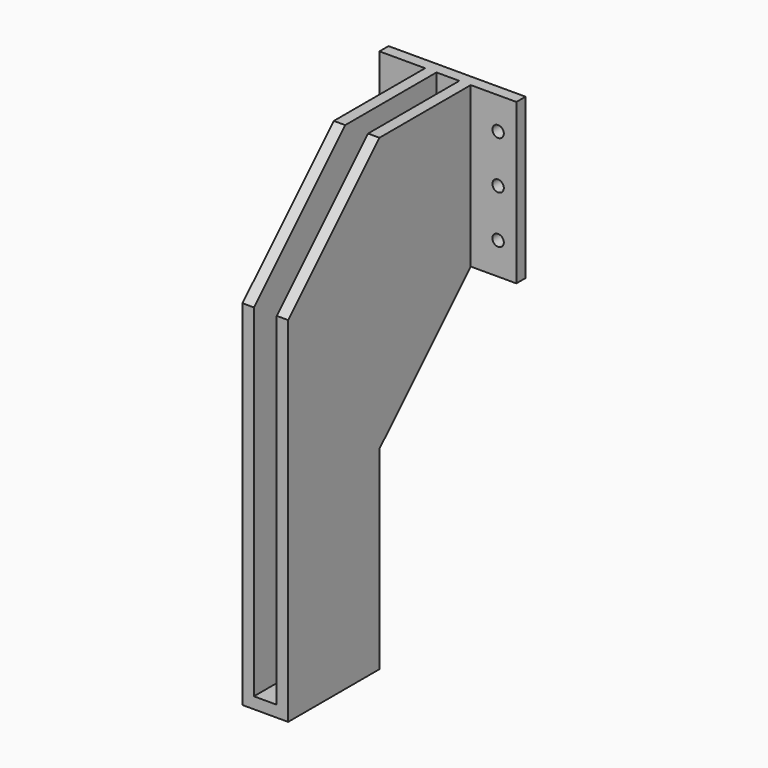
from build123d import *

# Parameters (mm, degrees)
F0_W     = 60
F0_H     = 70
F0_R     = 2.5
F1_DEPTH = 5
F2_W     = 5
F2_H     = 130
F2_H_2   = 70
F3_DEPTH = 100
F5_DEPTH = 25
F6_W     = 15
F6_H     = 50
F6_W_2   = 5
F7_DEPTH = 5
F9_D     = 5
F9_DEPTH = 40


with BuildPart() as f1:
    # F0 (on Front) → F1 (new body)
    with BuildSketch(Plane.XZ):
        Rectangle(F0_W, F0_H)
        with Locations((-22, -21)):
            Circle(F0_R, mode=Mode.SUBTRACT)
        with Locations((22, -21)):
            Circle(F0_R, mode=Mode.SUBTRACT)
        with Locations((-22, 0)):
            Circle(F0_R, mode=Mode.SUBTRACT)
        with Locations((-22, 21)):
            Circle(F0_R, mode=Mode.SUBTRACT)
        with Locations((22, 0)):
            Circle(F0_R, mode=Mode.SUBTRACT)
        with Locations((22, 21)):
            Circle(F0_R, mode=Mode.SUBTRACT)
    extrude(amount=F1_DEPTH)

    # F2 (on face) → F3 (join)
    with BuildSketch(Plane.XZ.offset(5)):
        with Locations((-7.5, -100)):
            Rectangle(F2_W, F2_H)
        with Locations((-7.5, 0)):
            Rectangle(F2_W, F2_H_2)
        with Locations((7.5, 0)):
            Rectangle(F2_W, F2_H_2)
        with Locations((7.5, -100)):
            Rectangle(F2_W, F2_H)
        with Locations((-7.5, 0)):
            Rectangle(F2_W, F2_H_2)
        with Locations((7.5, 0)):
            Rectangle(F2_W, F2_H_2)
    extrude(amount=F3_DEPTH)

    # F4 (on face) → F5 (cut)
    with BuildSketch(Plane.YZ.offset(10)):
        Polygon((-105, -15), (-55, 35), (-105, 35), align=None)
        Polygon((-5, -165), (-5, -35), (-55, -85), (-55, -165), align=None)
    extrude(amount=-F5_DEPTH, mode=Mode.SUBTRACT)

    # F6 (on face) → F7 (join)
    with BuildSketch(Plane(origin=(0, 0, -165), x_dir=(1, 0, 0), z_dir=(0, 0, -1))):
        with Locations((-2.5, 80)):
            Rectangle(F6_W, F6_H)
        with Locations((7.5, 80)):
            Rectangle(F6_W_2, F6_H)
    extrude(amount=F7_DEPTH)

    # F9
    with Locations(Plane(origin=(0, 0, -170), x_dir=(1, 0, 0), z_dir=(0, 0, -1))):
        with Locations((0, 90), (0, 70)):
            Hole(F9_D / 2, depth=F9_DEPTH)


solid = f1.part
